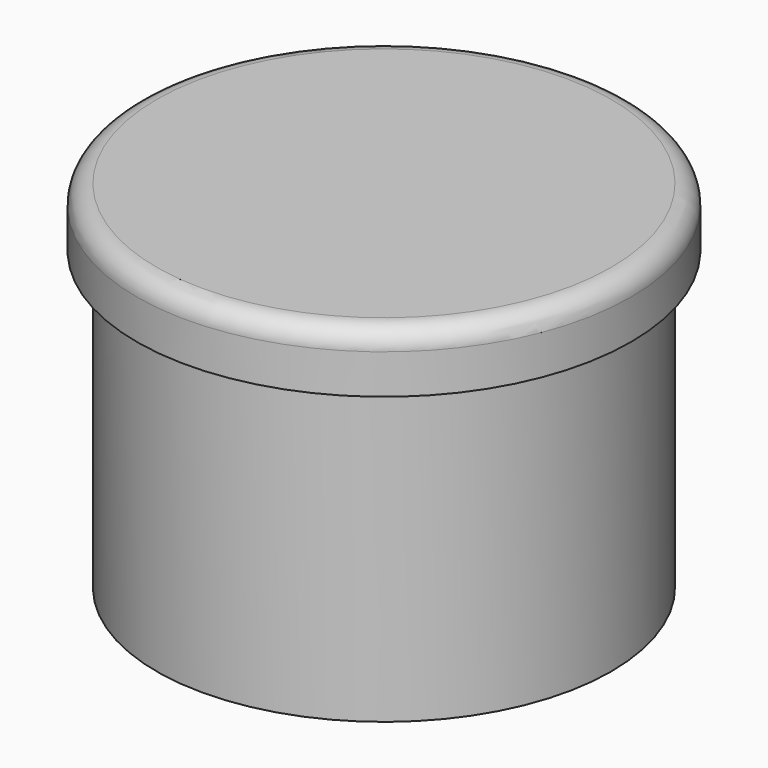
from build123d import *

# Parameters (mm, degrees)
SKETCH_R     = 11.5
PAD_DEPTH    = 15
SKETCH001_R  = 12.5
PAD001_DEPTH = 3
FILLET_R     = 1


with BuildPart() as part:
    # Sketch → Pad (new body)
    with BuildSketch(Plane.XY):
        Circle(SKETCH_R)
    extrude(amount=PAD_DEPTH)

    # Sketch001 (on DatumPlane) → Pad001 (join)
    with BuildSketch(Plane.XY.offset(15)):
        Circle(SKETCH001_R)
    extrude(amount=PAD001_DEPTH)

    # Fillet
    fillet_edges = [part.edges().sort_by_distance(p)[0] for p in [
        (-12.5, 0, 18),
    ]]
    fillet(fillet_edges, radius=FILLET_R)


solid = part.part
